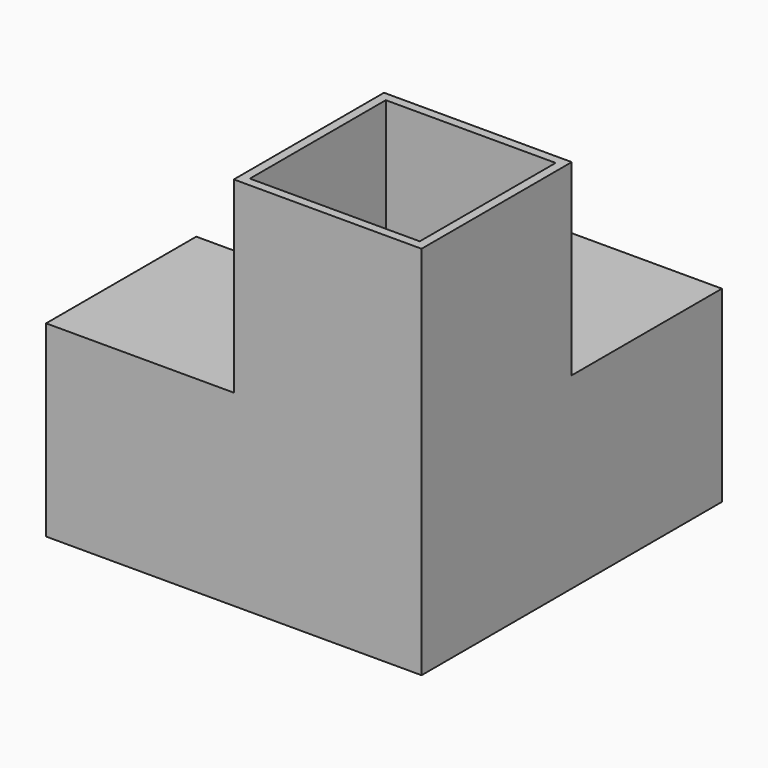
from build123d import *

# Parameters (mm, degrees)
F0_W      = 42
F0_H      = 42
F1_DEPTH  = 42
F2_W      = 21
F2_H      = 21
F3_DEPTH  = 42
F4_W      = 21
F4_H      = 21
F5_DEPTH  = 21
F6_W      = 21
F6_H      = 21
F7_DEPTH  = 21
F8_W      = 19
F8_H      = 19
F9_DEPTH  = 41
F10_W     = 19
F10_H     = 19
F11_DEPTH = 41
F12_W     = 19
F12_H     = 19
F13_DEPTH = 41


with BuildPart() as f1:
    # F0 (on Top) → F1 (new body)
    with BuildSketch(Plane.XY):
        Rectangle(F0_W, F0_H)
    extrude(amount=F1_DEPTH)

    # F2 (on face) → F3 (cut, through all)
    with BuildSketch(Plane.XY.offset(42)):
        with Locations((-10.5, 10.5)):
            Rectangle(F2_W, F2_H)
    extrude(amount=-F3_DEPTH, mode=Mode.SUBTRACT)

    # F4 (on face) → F5 (cut, through all)
    with BuildSketch(Plane.XZ.offset(21)):
        with Locations((-10.5, 31.5)):
            Rectangle(F4_W, F4_H)
    extrude(amount=-F5_DEPTH, mode=Mode.SUBTRACT)

    # F6 (on face) → F7 (cut, through all)
    with BuildSketch(Plane.YZ.offset(21)):
        with Locations((10.5, 31.5)):
            Rectangle(F6_W, F6_H)
    extrude(amount=-F7_DEPTH, mode=Mode.SUBTRACT)

    # F8 (on face) → F9 (cut)
    with BuildSketch(Plane.XY.offset(42)):
        with Locations((10.5, -10.5)):
            Rectangle(F8_W, F8_H)
    extrude(amount=-F9_DEPTH, mode=Mode.SUBTRACT)

    # F10 (on face) → F11 (cut)
    with BuildSketch(Plane(origin=(-21, 0, 0), x_dir=(0, -1, 0), z_dir=(-1, 0, 0))):
        with Locations((10.5, 10.5)):
            Rectangle(F10_W, F10_H)
    extrude(amount=-F11_DEPTH, mode=Mode.SUBTRACT)

    # F12 (on face) → F13 (cut)
    with BuildSketch(Plane(origin=(0, 21, 0), x_dir=(-1, 0, 0), z_dir=(0, 1, 0))):
        with Locations((-10.5, 10.5)):
            Rectangle(F12_W, F12_H)
    extrude(amount=-F13_DEPTH, mode=Mode.SUBTRACT)


solid = f1.part
